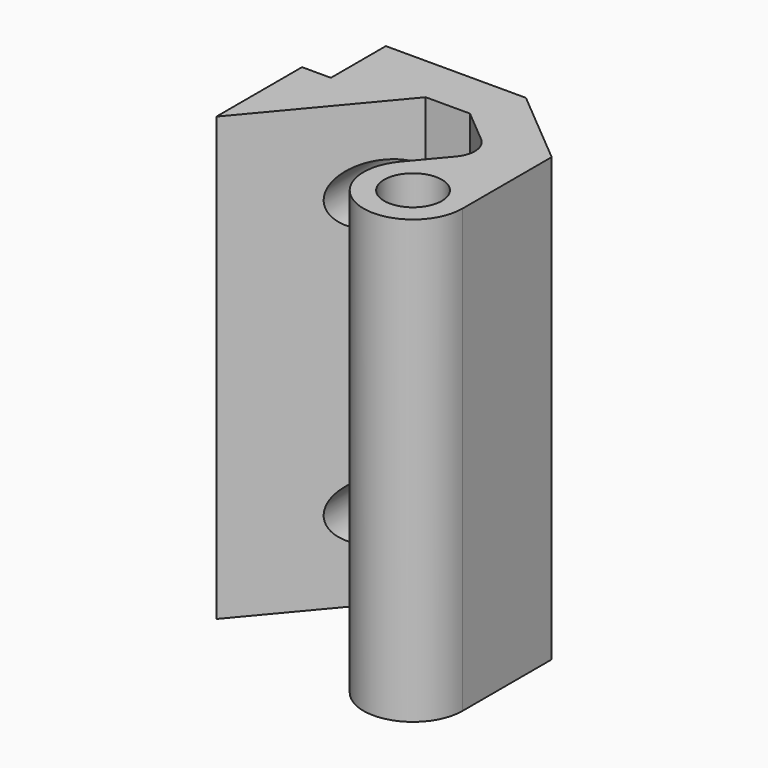
from build123d import *

# Parameters (mm, degrees)
F0_R     = 2.1
F1_DEPTH = 32.2
F2_R     = 2.25
F3_DEPTH = 16.501


with BuildPart() as f1:
    # F0 (on Top) → F1 (new body)
    with BuildSketch(Plane.XY):
        with BuildLine():
            Line((-5.7, 16.5), (-15.9, 16.5))
            Line((-15.9, 16.5), (-15.9, 11.5))
            Line((-15.9, 11.5), (-18, 11.5))
            Line((-18, 11.5), (-18, 3.7))
            Line((-18, 3.7), (-10.196373, 13))
            Line((-10.196373, 13), (-6.973896, 13))
            Line((-6.973896, 13), (-4.502056, 10.92588))
            ThreePointArc((-4.502056, 10.92588), (-3.865923, 9.70388), (-4.280194, 8.389982))
            Line((-4.280194, 8.389982), (-6.35776, 5.914035))
            ThreePointArc((-6.35776, 5.914035), (-2.368727, 6.982893), (0, 3.6))
            Line((0, 3.6), (0, 11.717132))
            Line((0, 11.717132), (-5.7, 16.5))
        make_face()
        with BuildLine():
            ThreePointArc((-6.35776, 5.914035), (-4.831273, 0.217107), (0, 3.6))
            ThreePointArc((0, 3.6), (-2.368727, 6.982893), (-6.35776, 5.914035))
        make_face()
        with Locations((-3.6, 3.6)):
            Circle(F0_R, mode=Mode.SUBTRACT)
    extrude(amount=F1_DEPTH)

    # F2 (on face) → F3 (cut, through all)
    with BuildSketch(Plane(origin=(0, 16.5, 0), x_dir=(-1, 0, 0), z_dir=(0, 1, 0))):
        with Locations((11.75, 26.2)):
            Circle(F2_R)
        with Locations((11.75, 6)):
            Circle(F2_R)
    extrude(amount=-F3_DEPTH, mode=Mode.SUBTRACT)


solid = f1.part
